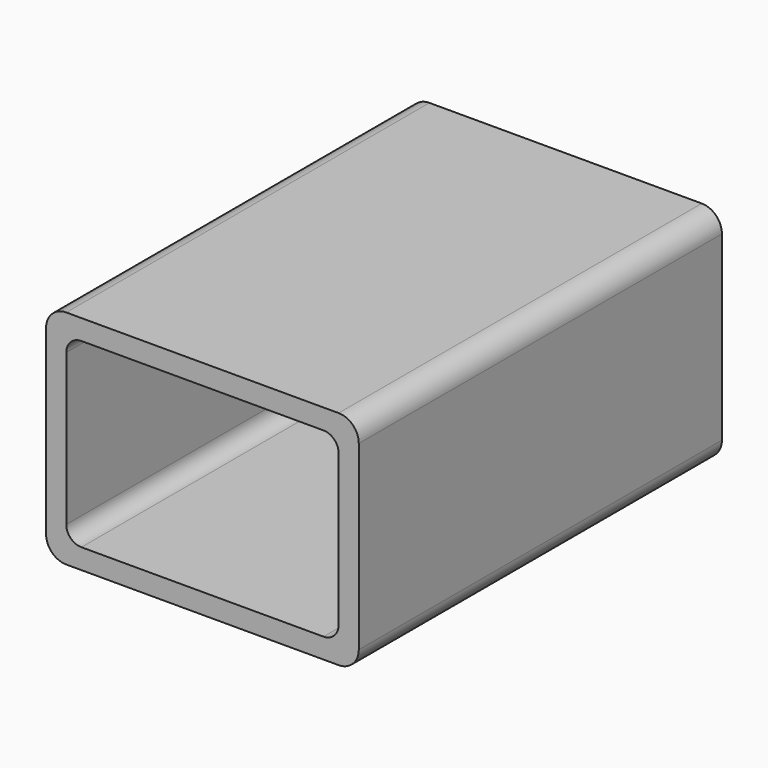
from build123d import *

# Parameters (mm, degrees)
F0_W     = 31
F0_H     = 22
F0_W_2   = 27
F0_H_2   = 18
F1_DEPTH = 45
F2_R     = 2
F3_R     = 1.5


with BuildPart() as f1:
    # F0 (on Front) → F1 (new body)
    with BuildSketch(Plane.XZ):
        with Locations((13.5, 9)):
            Rectangle(F0_W, F0_H)
        with Locations((13.5, 9)):
            Rectangle(F0_W_2, F0_H_2, mode=Mode.SUBTRACT)
    extrude(amount=F1_DEPTH)

    # F2
    f2_edges = [f1.edges().sort_by_distance(p)[0] for p in [
        (29, -22.5, 20),
        (-2, -22.5, 20),
        (29, -22.5, -2),
        (-2, -22.5, -2),
    ]]
    fillet(f2_edges, radius=F2_R)

    # F3
    f3_edges = [f1.edges().sort_by_distance(p)[0] for p in [
        (27, -22.5, 18),
        (27, -22.5, 0),
        (0, -22.5, 0),
        (0, -22.5, 18),
    ]]
    fillet(f3_edges, radius=F3_R)


solid = f1.part
